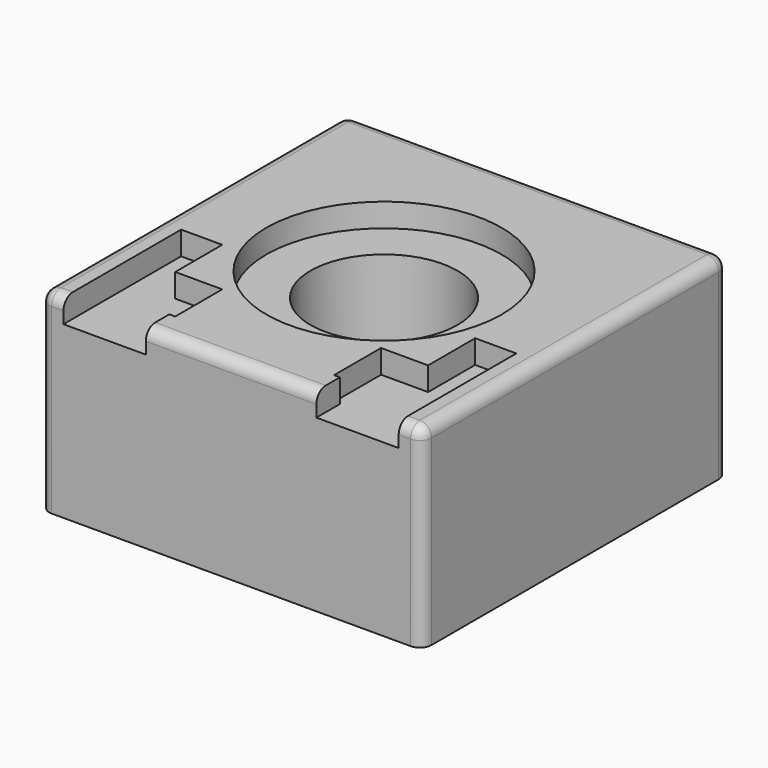
from build123d import *

# Parameters (mm, degrees)
SKETCH_W        = 6.5
SKETCH_H        = 6.5
PAD_DEPTH       = 3.3
SKETCH001_R     = 1.25
POCKET_DEPTH    = 3.3
SKETCH002_R     = 2
POCKET001_DEPTH = 0.4
FILLET_R        = 0.2


with BuildPart() as part:
    # Sketch → Pad (new body)
    with BuildSketch(Plane.XY):
        Rectangle(SKETCH_W, SKETCH_H)
    extrude(amount=PAD_DEPTH)

    # Sketch001 (on Face6 of Pad) → Pocket (cut)
    with BuildSketch(Plane.XY.offset(3.3)):
        Circle(SKETCH001_R)
    extrude(amount=-POCKET_DEPTH, mode=Mode.SUBTRACT)

    # Sketch002 (on Face5 of Pocket) → Pocket001 (cut)
    with BuildSketch(Plane.XY.offset(3.3)):
        Circle(SKETCH002_R)
        Polygon((-2.85, -0.75), (-2.15, -0.75), (-2.15, -1.75), (-1.35, -1.75), (-1.35, -2.75), (-1.45, -2.75), (-1.45, -3.25), (-2.85, -3.25), align=None)
        Polygon((2.15, -0.75), (2.85, -0.75), (2.85, -3.25), (1.45, -3.25), (1.45, -2.75), (1.35, -2.75), (1.35, -1.75), (2.15, -1.75), align=None)
    extrude(amount=-POCKET001_DEPTH, mode=Mode.SUBTRACT)

    # Fillet
    fillet_edges = [part.edges().sort_by_distance(p)[0] for p in [
        (-3.25, -3.25, 1.65),
        (3.25, -3.25, 1.65),
        (3.25, 3.25, 1.65),
        (-3.25, 3.25, 1.65),
        (0, -3.25, 3.3),
        (-3.05, -3.25, 3.3),
        (3.05, -3.25, 3.3),
        (3.25, 0, 3.3),
        (-3.25, 0, 3.3),
        (0, 3.25, 3.3),
    ]]
    fillet(fillet_edges, radius=FILLET_R)


solid = part.part
